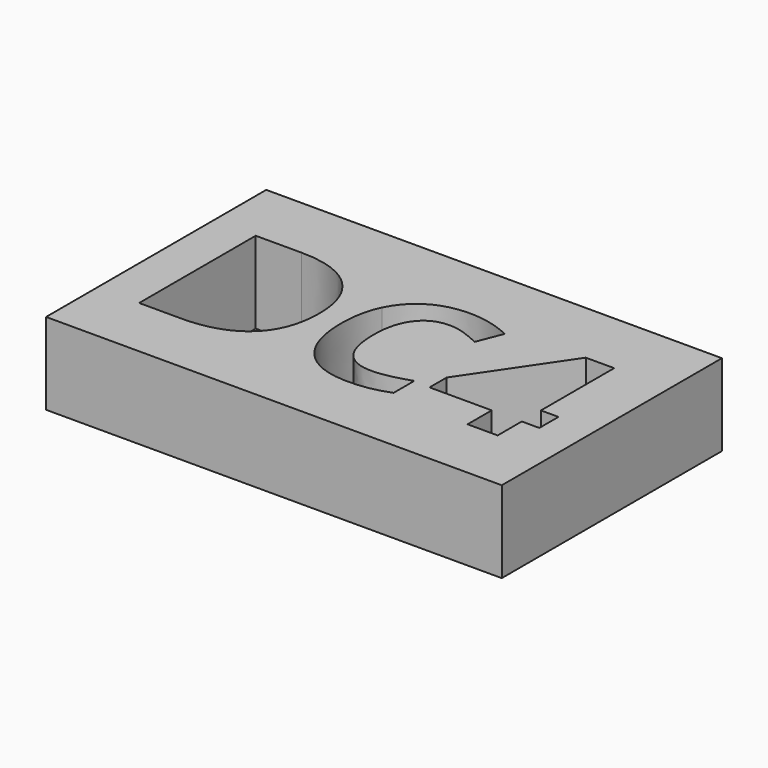
from build123d import *

# Parameters (mm, degrees)
F0_W     = 139.312
F0_H     = 84.13
F1_DEPTH = 25


with BuildPart() as f1:
    # F0 (on Top) → F1 (new body)
    with BuildSketch(Plane.XY):
        Rectangle(F0_W, F0_H)
        with BuildLine():
            add(Edge.make_bspline(
                [(-25.8895429555, 16.2212613242), (-19.8561711311, 10.4656780249), (-19.8561711311, 0.1338942869)],
                knots=[0, 0, 0, 1, 1, 1], degree=2))
            add(Edge.make_bspline(
                [(-19.8561711311, 0.1338942869), (-19.8561711311, -10.8606831248), (-26.1185966515, -16.7088625991)],
                knots=[0, 0, 0, 1, 1, 1], degree=2))
            add(Edge.make_bspline(
                [(-26.1185966515, -16.7088625991), (-32.381022172, -22.5570420735), (-44.1943447101, -22.5570420735)],
                knots=[0, 0, 0, 1, 1, 1], degree=2))
            Line((-44.1943447101, -22.5570420735), (-56.806918443, -22.5570420735))
            Line((-56.806918443, -22.5570420735), (-56.806918443, 21.9768446235))
            Line((-56.806918443, 21.9768446235), (-42.8297694994, 21.9768446235))
            add(Edge.make_bspline(
                [(-42.8297694994, 21.9768446235), (-31.9229147798, 21.9768446235), (-25.8895429555, 16.2212613242)],
                knots=[0, 0, 0, 1, 1, 1], degree=2))
        make_face(mode=Mode.SUBTRACT)
        with BuildLine():
            add(Edge.make_bspline(
                [(13.2542716593, 13.8722425686), (10.7298075196, 14.7543429727), (8.2930660719, 14.7543429727)],
                knots=[0, 0, 0, 1, 1, 1], degree=2))
            add(Edge.make_bspline(
                [(8.2930660719, 14.7543429727), (2.9614757845, 14.7543429727), (0.0373860474, 10.7483400328)],
                knots=[0, 0, 0, 1, 1, 1], degree=2))
            add(Edge.make_bspline(
                [(0.0373860474, 10.7483400328), (-2.8867036898, 6.7423370929), (-2.8867036898, -0.4119357974)],
                knots=[0, 0, 0, 1, 1, 1], degree=2))
            add(Edge.make_bspline(
                [(-2.8867036898, -0.4119357974), (-2.8867036898, -15.3052995253), (8.2930660719, -15.3052995253)],
                knots=[0, 0, 0, 1, 1, 1], degree=2))
            add(Edge.make_bspline(
                [(8.2930660719, -15.3052995253), (12.9813566172, -15.3052995253), (19.6482812179, -12.9660277356)],
                knots=[0, 0, 0, 1, 1, 1], degree=2))
            Line((19.6482812179, -12.9660277356), (19.6482812179, -20.8805639575))
            add(Edge.make_bspline(
                [(19.6482812179, -20.8805639575), (14.1704864436, -23.1711009183), (7.406092185, -23.1711009183)],
                knots=[0, 0, 0, 1, 1, 1], degree=2))
            add(Edge.make_bspline(
                [(7.406092185, -23.1711009183), (-2.3116327082, -23.1711009183), (-7.4580306456, -17.274186615)],
                knots=[0, 0, 0, 1, 1, 1], degree=2))
            add(Edge.make_bspline(
                [(-7.4580306456, -17.274186615), (-12.604428583, -11.3772723117), (-12.604428583, -0.3534540026)],
                knots=[0, 0, 0, 1, 1, 1], degree=2))
            add(Edge.make_bspline(
                [(-12.604428583, -0.3534540026), (-12.604428583, 6.596132606), (-10.0750909603, 11.8205062697)],
                knots=[0, 0, 0, 1, 1, 1], degree=2))
            add(Edge.make_bspline(
                [(-10.0750909603, 11.8205062697), (-7.5457533377, 17.0448799335), (-2.8087279635, 19.8276386667)],
                knots=[0, 0, 0, 1, 1, 1], degree=2))
            add(Edge.make_bspline(
                [(-2.8087279635, 19.8276386667), (1.9282974107, 22.6103973999), (8.2930660719, 22.6103973999)],
                knots=[0, 0, 0, 1, 1, 1], degree=2))
            add(Edge.make_bspline(
                [(8.2930660719, 22.6103973999), (14.7747983226, 22.6103973999), (21.3247593339, 19.4816213811)],
                knots=[0, 0, 0, 1, 1, 1], degree=2))
            Line((21.3247593339, 19.4816213811), (18.2837060072, 11.8010123382))
            add(Edge.make_bspline(
                [(18.2837060072, 11.8010123382), (15.7787357991, 12.9901421646), (13.2542716593, 13.8722425686)],
                knots=[0, 0, 0, 1, 1, 1], degree=2))
        make_face(mode=Mode.SUBTRACT)
        Polygon((58.1487960905, -6.0164411269), (58.1487960905, -13.3266654698), (52.7879649057, -13.3266654698), (52.7879649057, -22.5570420735), (43.5868291994, -22.5570420735), (43.5868291994, -13.3266654698), (24.5802459079, -13.3266654698), (24.5802459079, -6.7767044586), (44.1131653521, 21.9768446235), (52.7879649057, 21.9768446235), (52.7879649057, -6.0164411269), align=None, mode=Mode.SUBTRACT)
    extrude(amount=F1_DEPTH)


solid = f1.part
